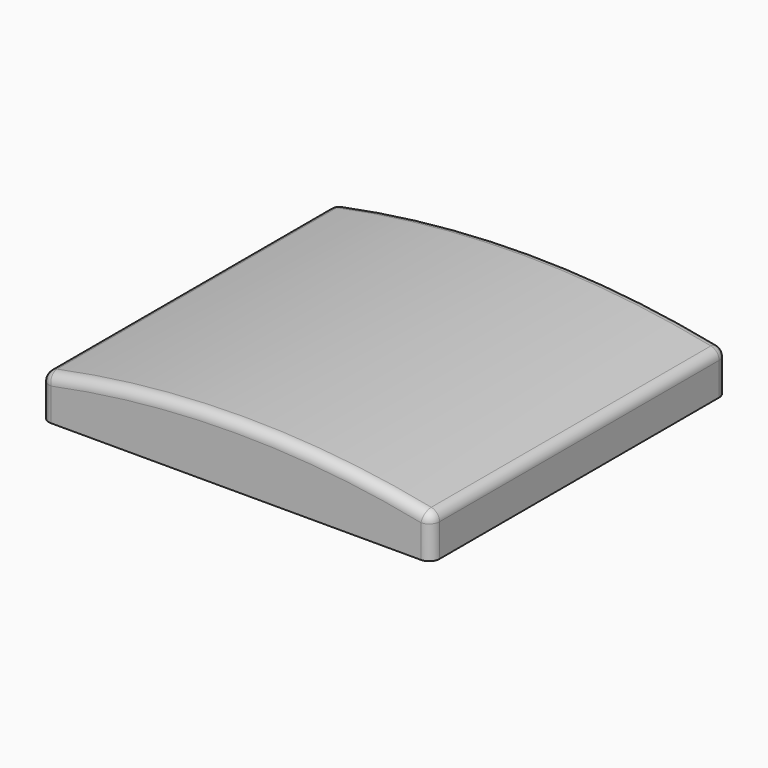
from build123d import *

# Parameters (mm, degrees)
F1_DEPTH = 228.6
F0_W     = 482.6
F0_H     = 50.8
F2_DEPTH = 228.6
F3_R     = 12.7


with BuildPart() as f1:
    # F0 (on Front) → F1 (new body, symmetric)
    with BuildSketch(Plane.XZ):
        with BuildLine():
            Line((-241.3, 25.4), (241.3, 25.4))
            ThreePointArc((241.3, 25.4), (0, 50.8), (-241.3, 25.4))
        make_face()
    extrude(amount=F1_DEPTH, both=True)

    # F0 (on Front) → F2 (join, symmetric)
    with BuildSketch(Plane.XZ):
        Rectangle(F0_W, F0_H)
        with BuildLine():
            Line((-241.3, 25.4), (241.3, 25.4))
            ThreePointArc((241.3, 25.4), (0, 50.8), (-241.3, 25.4))
        make_face()
    extrude(amount=F2_DEPTH, both=True)

    # F3
    f3_edges = [f1.edges().sort_by_distance(p)[0] for p in [
        (-241.3, 228.6, 0),
        (-241.3, -228.6, 0),
        (241.3, 228.6, 0),
        (241.3, -228.6, 0),
        (241.3, 0, 25.4),
        (0, -228.6, 50.8),
        (0, 228.6, 50.8),
        (-241.3, 0, 25.4),
    ]]
    fillet(f3_edges, radius=F3_R)


solid = f1.part
